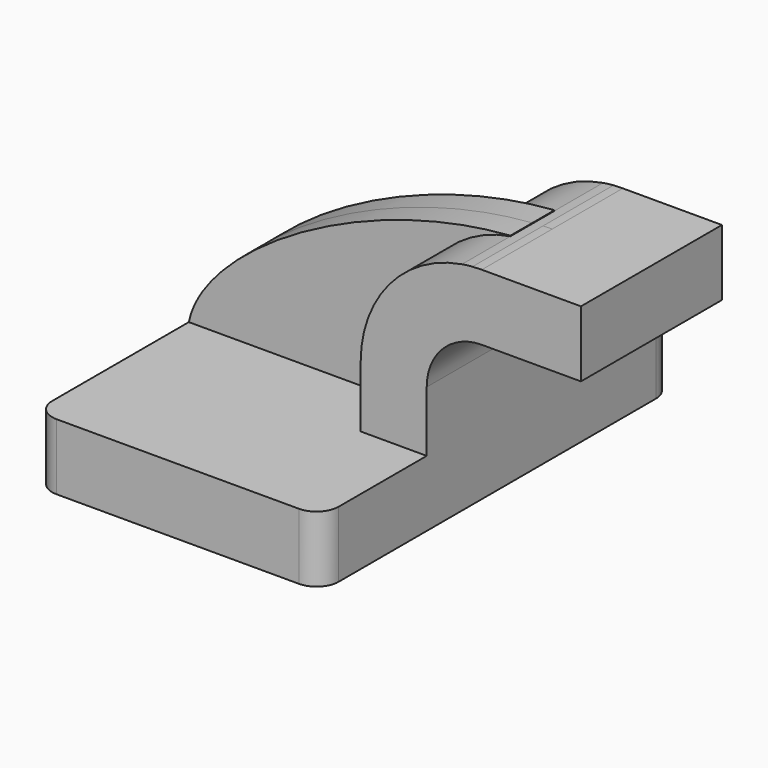
from build123d import *

# Parameters (mm, degrees)
F1_DEPTH = 63.5
F2_DEPTH = 25.4
F3_DEPTH = 7.9375
F4_R     = 6.35


with BuildPart() as f1:
    # F0 (on Front) → F1 (new body, symmetric)
    with BuildSketch(Plane.XZ):
        Polygon((-41.275, 9.525), (-41.275, -9.525), (41.275, -9.525), (41.275, 9.525), (22.225, 9.525), align=None)
    extrude(amount=F1_DEPTH, both=True)

    # F0 (on Front) → F2 (join, symmetric)
    with BuildSketch(Plane.XZ):
        with BuildLine():
            Line((22.225, 9.525), (41.275, 9.525))
            Line((41.275, 9.525), (41.275, 27.0002))
            ThreePointArc((41.275, 27.0002), (44.060295, 35.982141), (51.438812, 41.812288))
            Line((51.438812, 41.812288), (51.438812, 61.455068))
            ThreePointArc((51.438812, 61.455068), (30.511505, 49.586616), (22.225, 27.0002))
            Line((22.225, 27.0002), (22.225, 9.525))
        make_face()
        with BuildLine():
            ThreePointArc((54.452364, 61.82086), (52.941612, 61.670722), (51.438812, 61.455068))
            Line((51.438812, 61.455068), (51.438812, 41.812288))
            ThreePointArc((51.438812, 41.812288), (54.245372, 42.60721), (57.15, 42.8752))
            Line((57.15, 42.8752), (85.725, 42.8752))
            Line((85.725, 42.8752), (85.725, 61.9252))
            Line((85.725, 61.9252), (57.15, 61.9252))
            add(Edge.make_bspline(
                [(54.452364, 61.82086), (55.352208, 61.866143), (56.251535, 61.90101), (57.15, 61.9252)],
                knots=[109.319651, 109.319651, 109.319651, 109.319651, 111.504536, 111.504536, 111.504536, 111.504536], degree=3))
        make_face()
    extrude(amount=F2_DEPTH, both=True)

    # F0 (on Front) → F3 (join, symmetric)
    with BuildSketch(Plane.XZ):
        with BuildLine():
            add(Edge.make_bspline(
                [(-41.275, 9.525), (-36.986678, 30.729489), (7.384144, 58.294379), (51.438812, 61.630741)],
                knots=[0, 0, 0, 0, 106.881788, 106.881788, 106.881788, 106.881788], degree=3))
            Line((-41.275, 9.525), (22.225, 9.525))
            Line((22.225, 9.525), (22.225, 27.0002))
            ThreePointArc((22.225, 27.0002), (30.511505, 49.586616), (51.438812, 61.455068))
            Line((51.438812, 61.455068), (51.438812, 61.630741))
        make_face()
    extrude(amount=F3_DEPTH, both=True)

    # F4
    f4_edges = [f1.edges().sort_by_distance(p)[0] for p in [
        (-41.275, -63.5, 0),
        (41.275, -63.5, 0),
        (41.275, 63.5, 0),
        (-41.275, 63.5, 0),
    ]]
    fillet(f4_edges, radius=F4_R)


solid = f1.part
